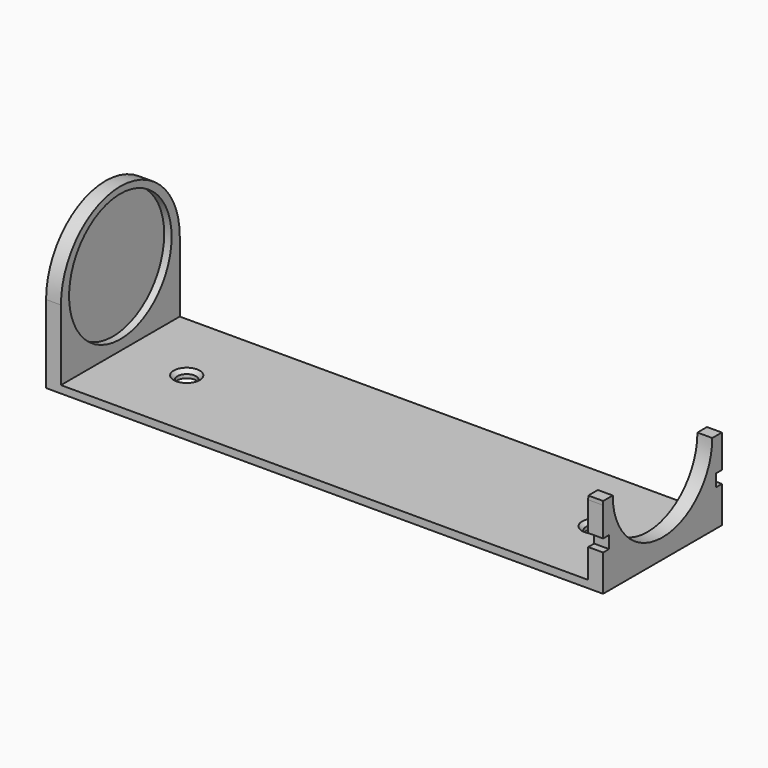
from build123d import *

# Parameters (mm, degrees)
F0_W      = 150
F0_H      = 40
F1_DEPTH  = 2
F2_W      = 4
F2_H      = 40
F2_W_2    = 2
F3_DEPTH  = 40
F4_R      = 17.25
F5_DEPTH  = 2
F7_DEPTH  = 20
F8_DEPTH  = 2.001
F9_R      = 2.5
F10_DEPTH = 42.001
F11_W     = 2
F11_H     = 3.3180480823
F12_DEPTH = 25
F14_DEPTH = 150.001
F15_SIZE  = 1
F16_DEPTH = 2


with BuildPart() as f1:
    # F0 (on Top) → F1 (new body)
    with BuildSketch(Plane.XY):
        with Locations((29.9631836727, -6.3660135493)):
            Rectangle(F0_W, F0_H)
    extrude(amount=F1_DEPTH)

    # F2 (on face) → F3 (join)
    with BuildSketch(Plane.XY.offset(2)):
        with Locations((-43.0368163273, -6.3660135493)):
            Rectangle(F2_W, F2_H)
        with Locations((103.9631836727, -6.3660135493)):
            Rectangle(F2_W_2, F2_H)
    extrude(amount=F3_DEPTH)

    # F4 (on face) → F5 (cut)
    with BuildSketch(Plane.YZ.offset(-41.0368163273)):
        with Locations((-6.3660135493, 22)):
            Circle(F4_R)
    extrude(amount=-F5_DEPTH, mode=Mode.SUBTRACT)

    # F7 (cut): a face of the model
    f7_faces = [f1.faces().sort_by_distance(p)[0] for p in [
        (103.9631836727, -6.3660135493, 42),
    ]]
    extrude(f7_faces, amount=-F7_DEPTH, mode=Mode.SUBTRACT)

    # F6 (on face) → F8 (cut, through all)
    with BuildSketch(Plane(origin=(102.9631836727, 0, 0), x_dir=(0, -1, 0), z_dir=(-1, 0, 0))):
        with BuildLine():
            Line((23.1160135493, 22), (-10.3839864507, 22))
            ThreePointArc((-10.3839864507, 22), (6.3660135493, 5.25), (23.1160135493, 22))
        make_face()
    extrude(amount=-F8_DEPTH, mode=Mode.SUBTRACT)

    # F9 (on face) → F10 (cut, through all)
    with BuildSketch(Plane(origin=(0, 0, 0), x_dir=(1, 0, 0), z_dir=(0, 0, -1))):
        with Locations((-23.1661424041, 6.3660135493)):
            Circle(F9_R)
        with Locations((86.8019685149, 6.3660135493)):
            Circle(F9_R)
    extrude(amount=-F10_DEPTH, mode=Mode.SUBTRACT)

    # F11 (on face) → F12 (cut)
    with BuildSketch(Plane.YZ.offset(104.9631836727)):
        with Locations((-25.3660135493, 11.4577081986)):
            Rectangle(F11_W, F11_H)
        with Locations((12.6339864507, 11.4577081986)):
            Rectangle(F11_W, F11_H)
    extrude(amount=-F12_DEPTH, mode=Mode.SUBTRACT)

    # F13 (on face) → F14 (cut, through all)
    with BuildSketch(Plane(origin=(-45.0368163273, 0, 0), x_dir=(0, -1, 0), z_dir=(-1, 0, 0))):
        with BuildLine():
            ThreePointArc((-13.6339864507, 21), (6.3660135493, 41), (26.3660135493, 21))
            Line((26.3660135493, 21), (26.3660135493, 42))
            Line((26.3660135493, 42), (-13.6339864507, 42))
            Line((-13.6339864507, 42), (-13.6339864507, 21))
        make_face()
    extrude(amount=-F14_DEPTH, mode=Mode.SUBTRACT)

    # F15
    f15_edges = [f1.edges().sort_by_distance(p)[0] for p in [
        (-25.666142, -6.366014, 2),
        (84.301969, -6.366014, 2),
    ]]
    chamfer(f15_edges, length=F15_SIZE)

    # F16 (add): a face of the model
    f16_faces = [f1.faces().sort_by_distance(p)[0] for p in [
        (102.9631836727, -6.3660135493, 2.4472135955),
    ]]
    extrude(f16_faces, amount=F16_DEPTH)


solid = f1.part
